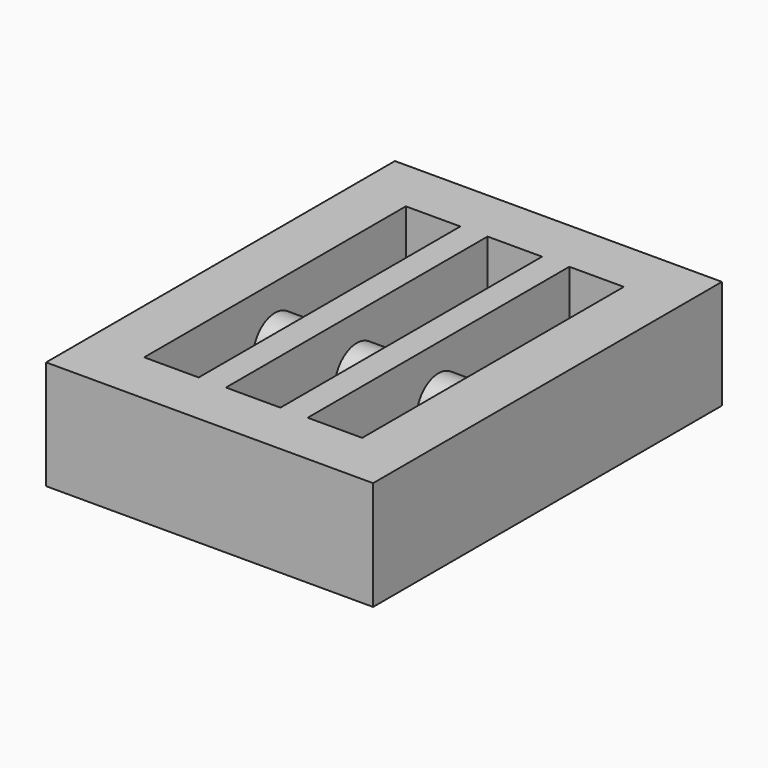
from build123d import *

# Parameters (mm, degrees)
F1_DEPTH = 50.8
F2_R     = 12.7
F3_DEPTH = 127


with BuildPart() as f1:
    # F0 (on Top) → F1 (new body)
    with BuildSketch(Plane.XY):
        Polygon((50.8, 177.8), (-101.6, 177.8), (-101.6, 152.4), (-101.6, 0), (-76.2, 0), (-76.2, 152.4), (-50.8, 152.4), (-50.8, 0), (-38.1, 0), (-38.1, 152.4), (-12.7, 152.4), (-12.7, 0), (0, 0), (0, 152.4), (25.4, 152.4), (25.4, 0), (50.8, 0), (50.8, 127), align=None)
        Polygon((-76.2, 0), (-101.6, 0), (-101.6, -25.4), (50.8, -25.4), (50.8, 0), (25.4, 0), (0, 0), (-12.7, 0), (-38.1, 0), (-50.8, 0), align=None)
    extrude(amount=-F1_DEPTH)

    # F2 (on face) → F3 (join)
    with BuildSketch(Plane.YZ.offset(-76.2)):
        with Locations((76.2, -25.4)):
            Circle(F2_R)
    extrude(amount=F3_DEPTH)


solid = f1.part
